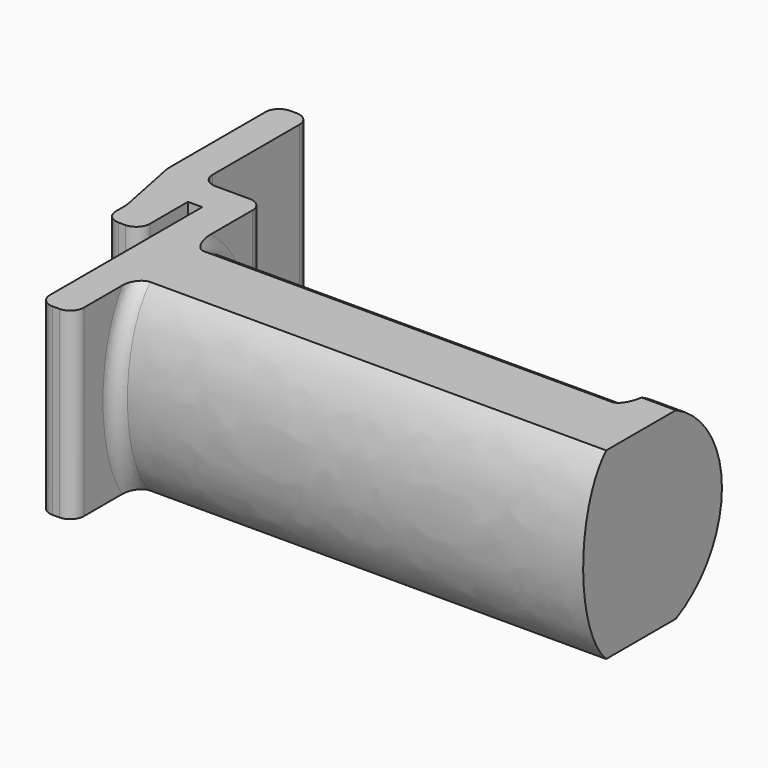
from build123d import *

# Parameters (mm, degrees)
F3_DEPTH = 13.5
F5_DEPTH = 69
F7_DEPTH = 5
F8_R     = 2


with BuildPart() as f3:
    # F2 (on Top) → F3 (new body, symmetric)
    with BuildSketch(Plane.XY):
        with BuildLine():
            ThreePointArc((-12.1, -12), (-11.5142135624, -13.4142135624), (-10.1, -14))
            Line((-10.1, -14), (-9.1, -14))
            ThreePointArc((-9.1, -14), (-7.6857864376, -13.4142135624), (-7.1, -12))
            Line((-7.1, -12), (-7.1, -5))
            Line((-7.1, -5), (-5, -5))
            Line((-5, -5), (-5, -33))
            ThreePointArc((-5, -33), (-4.4142135624, -34.4142135624), (-3, -35))
            Line((-3, -35), (-2, -35))
            ThreePointArc((-2, -35), (-0.5857864376, -34.4142135624), (0, -33))
            Line((0, -33), (0, -2))
            ThreePointArc((0, -2), (-0.5857864376, -0.5857864376), (-2, 0))
            Line((-2, 0), (-7.1, 0))
            ThreePointArc((-7.1, 0), (-8.5142135624, 0.5857864376), (-9.1, 2))
            Line((-9.1, 2), (-9.1, 18))
            ThreePointArc((-9.1, 18), (-9.6857864376, 19.4142135624), (-11.1, 20))
            Line((-11.1, 20), (-12.1, 20))
            ThreePointArc((-12.1, 20), (-13.5142135624, 19.4142135624), (-14.1, 18))
            Line((-14.1, 18), (-14.1, 0.495097568))
            ThreePointArc((-14.1, 0.495097568), (-14.0756666333, 0.0024094781), (-14.0029033785, -0.4854831077))
            Line((-14.0029033785, -0.4854831077), (-12.1970966215, -9.5145168923))
            ThreePointArc((-12.1970966215, -9.5145168923), (-12.1243333667, -10.0024094781), (-12.1, -10.495097568))
            Line((-12.1, -10.495097568), (-12.1, -12))
        make_face()
    extrude(amount=F3_DEPTH, both=True)

    # F4 (on face) → F5 (join)
    with BuildSketch(Plane.YZ):
        with BuildLine():
            Line((-23.2691742077, -13.5), (-16.7308257923, -13.5))
            add(Edge.make_bspline(
                [(-16.7308257923, -13.5), (-2.7938199597, 0), (-16.7308257923, 13.5)],
                knots=[0.4510268118, 0.4510268118, 0.4510268118, 2.6905658418, 2.6905658418, 2.6905658418], degree=2, weights=[1, 0.4358898944, 1]))
            Line((-16.7308257923, 13.5), (-23.2691742077, 13.5))
            add(Edge.make_bspline(
                [(-23.2691742077, 13.5), (-37.2061800403, 0), (-23.2691742077, -13.5)],
                knots=[3.5926194654, 3.5926194654, 3.5926194654, 5.8321584954, 5.8321584954, 5.8321584954], degree=2, weights=[1, 0.4358898944, 1]))
        make_face()
        with BuildLine():
            Line((-16.7308257923, -13.5), (-13.4616515847, -13.5))
            ThreePointArc((-13.4616515847, -13.5), (-5, 0), (-13.4616515847, 13.5))
            Line((-13.4616515847, 13.5), (-16.7308257923, 13.5))
            add(Edge.make_bspline(
                [(-16.7308257923, -13.5), (-2.7938199597, 0), (-16.7308257923, 13.5)],
                knots=[0.4510268118, 0.4510268118, 0.4510268118, 2.6905658418, 2.6905658418, 2.6905658418], degree=2, weights=[1, 0.4358898944, 1]))
        make_face()
    extrude(amount=F5_DEPTH)

    # F6 (on face) → F7 (join)
    with BuildSketch(Plane.YZ.offset(69)):
        with BuildLine():
            Line((-10.4616515847, 13.5), (-13.4616515847, 13.5))
            ThreePointArc((-13.4616515847, 13.5), (-5, 0), (-13.4616515847, -13.5))
            Line((-13.4616515847, -13.5), (-10.4616515847, -13.5))
            ThreePointArc((-10.4616515847, -13.5), (-2, 0), (-10.4616515847, 13.5))
        make_face()
    extrude(amount=-F7_DEPTH)

    # F8
    f8_edges = [f3.edges().sort_by_distance(p)[0] for p in [
        (0, -5, 0),
        (0, -27.5, -0.000816),
        (64, -5, 0),
    ]]
    fillet(f8_edges, radius=F8_R)


solid = f3.part
